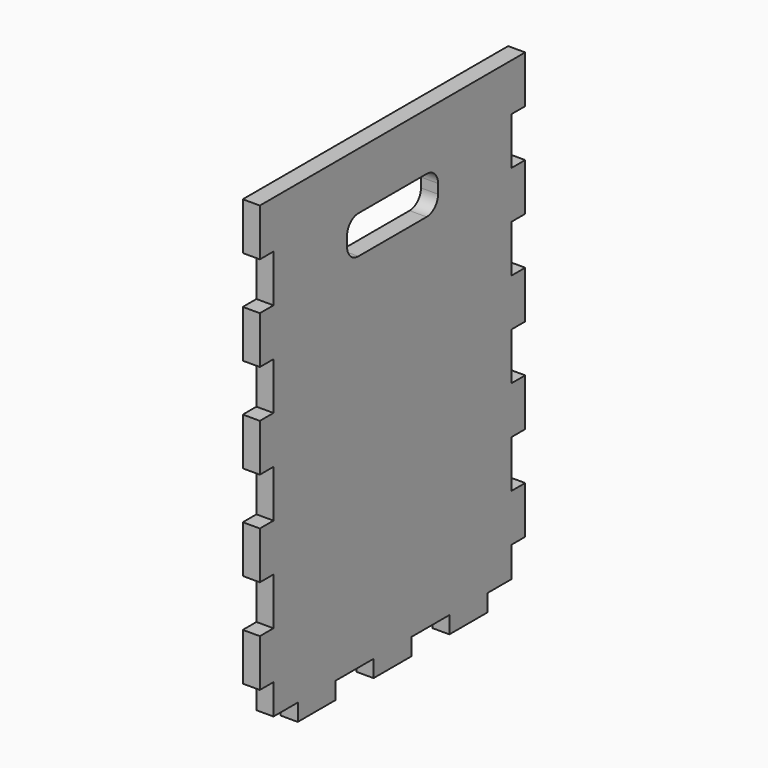
from build123d import *

# Parameters (mm, degrees)
F1_DEPTH = 18
F3_DEPTH = 25


with BuildPart() as f1:
    # F0 (on Right) → F1 (new body)
    with BuildSketch(Plane.YZ):
        Polygon((-157, 250), (-175, 250), (-175, 200), (-157, 200), (-157, 150), (-175, 150), (-175, 100), (-157, 100), (-157, 50), (-175, 50), (-175, 0), (-157, 0), (-157, -50), (-175, -50), (-175, -100), (-157, -100), (-157, -150), (-175, -150), (-175, -200), (-157, -200), (-157, -232), (-125, -232), (-125, -250), (-75, -250), (-75, -232), (-25, -232), (-25, -250), (25, -250), (25, -232), (75, -232), (75, -250), (125, -250), (125, -232), (157, -232), (157, -200), (175, -200), (175, -150), (157, -150), (157, -100), (175, -100), (175, -50), (157, -50), (157, 0), (175, 0), (175, 50), (157, 50), (157, 100), (175, 100), (175, 150), (157, 150), (157, 200), (175, 200), (175, 250), (157, 250), align=None)
    extrude(amount=F1_DEPTH)

    # F2 (on face) → F3 (cut)
    with BuildSketch(Plane.YZ.offset(18)):
        with BuildLine():
            Line((45, 190), (-45, 190))
            ThreePointArc((-45, 190), (-55.606602, 185.606602), (-60, 175))
            Line((-60, 175), (-60, 165))
            ThreePointArc((-60, 165), (-55.606602, 154.393398), (-45, 150))
            Line((-45, 150), (45, 150))
            ThreePointArc((45, 150), (55.606602, 154.393398), (60, 165))
            Line((60, 165), (60, 175))
            ThreePointArc((60, 175), (55.606602, 185.606602), (45, 190))
        make_face()
    extrude(amount=-F3_DEPTH, mode=Mode.SUBTRACT)


solid = f1.part
